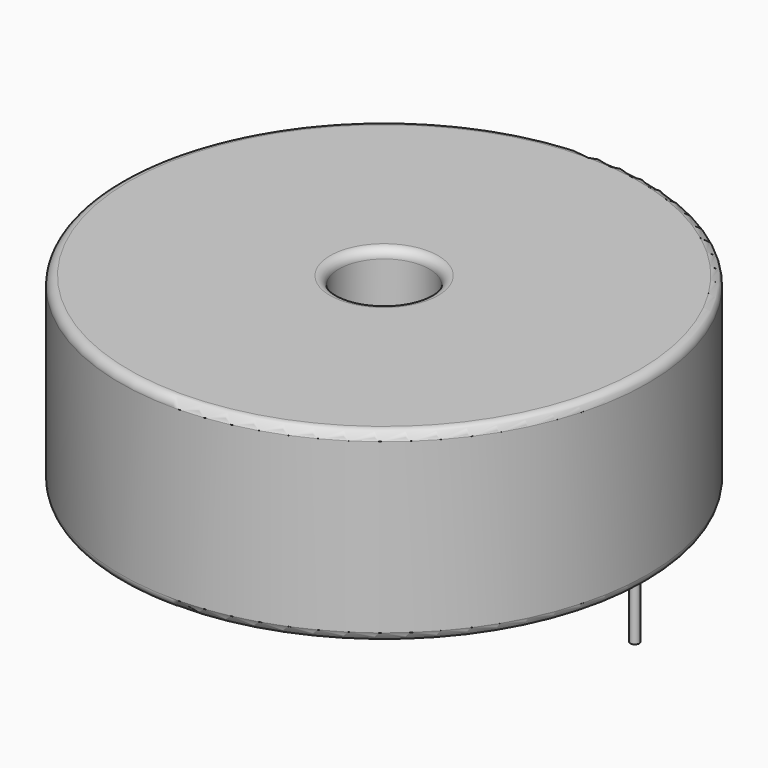
from build123d import *

# Parameters (mm, degrees)
SKETCH001_R       = 0.25
PAD001_DEPTH      = 5.25
PAD001_DEPTH_BACK = 3.5
SKETCH_R          = 14.9
SKETCH_R_2        = 2.55
PAD_DEPTH         = 10.5
FILLET_R          = 0.5


with BuildPart() as pad001:
    # Sketch001 → Pad001 (new body, two sides)
    with BuildSketch(Plane.XY.offset(0.5)) as pad001_sk:
        Circle(SKETCH001_R)
        with Locations((28.3, 0)):
            Circle(SKETCH001_R)
    extrude(amount=PAD001_DEPTH)
    extrude(pad001_sk.sketch, amount=-PAD001_DEPTH_BACK)


with BuildPart() as fillet_body:
    # Sketch → Pad (new body)
    with BuildSketch(Plane.XY.offset(0.1)):
        with Locations((14.15, 0)):
            Circle(SKETCH_R)
        with Locations((14.15, 0)):
            Circle(SKETCH_R_2, mode=Mode.SUBTRACT)
    extrude(amount=PAD_DEPTH)

    # Fillet
    fillet_edges = [fillet_body.edges().sort_by_distance(p)[0] for p in [
        (11.6, 0, 10.6),
        (-0.75, 0, 10.6),
        (-0.75, 0, 0.1),
    ]]
    fillet(fillet_edges, radius=FILLET_R)


solid = Compound([pad001.part, fillet_body.part])
